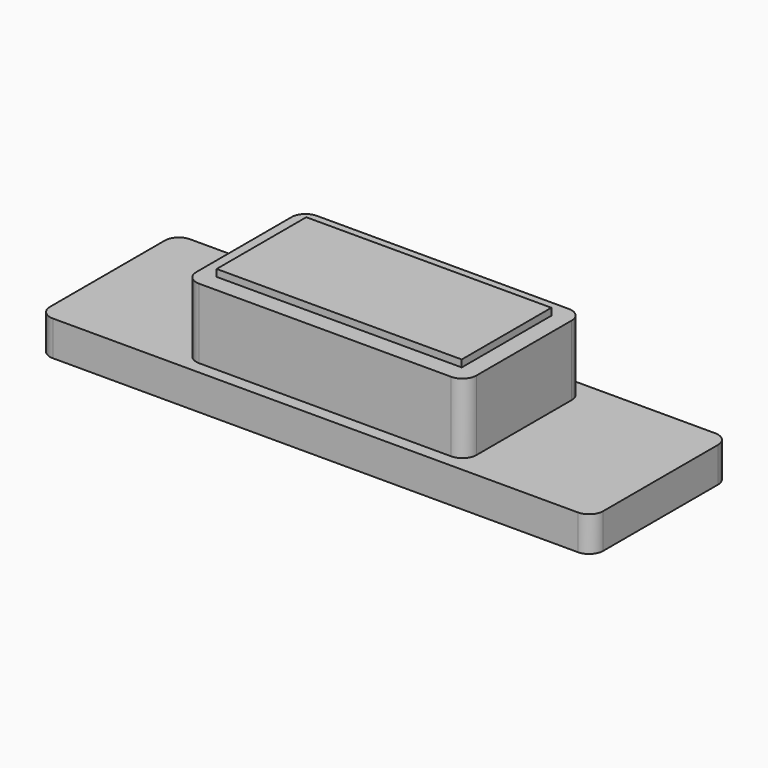
from build123d import *

# Parameters (mm, degrees)
F0_W     = 7.9
F0_H     = 2.45
F1_DEPTH = 0.5
F2_R     = 0.2
F3_W     = 4
F3_H     = 2.1
F4_DEPTH = 1
F5_R     = 0.2
F6_W     = 3.5
F6_H     = 1.6
F7_DEPTH = 0.1


with BuildPart() as f1:
    # F0 (on Top) → F1 (new body)
    with BuildSketch(Plane.XY):
        Rectangle(F0_W, F0_H)
    extrude(amount=F1_DEPTH)

    # F2
    f2_edges = [f1.edges().sort_by_distance(p)[0] for p in [
        (-3.95, -1.225, 0.25),
        (3.95, -1.225, 0.25),
        (3.95, 1.225, 0.25),
        (-3.95, 1.225, 0.25),
    ]]
    fillet(f2_edges, radius=F2_R)

    # F3 (on face) → F4 (join)
    with BuildSketch(Plane.XY.offset(0.5)):
        Rectangle(F3_W, F3_H)
    extrude(amount=F4_DEPTH)

    # F5
    f5_edges = [f1.edges().sort_by_distance(p)[0] for p in [
        (-2, -1.05, 1),
        (2, -1.05, 1),
        (2, 1.05, 1),
        (-2, 1.05, 1),
    ]]
    fillet(f5_edges, radius=F5_R)

    # F6 (on face) → F7 (join)
    with BuildSketch(Plane.XY.offset(1.5)):
        Rectangle(F6_W, F6_H)
    extrude(amount=F7_DEPTH)


solid = f1.part
